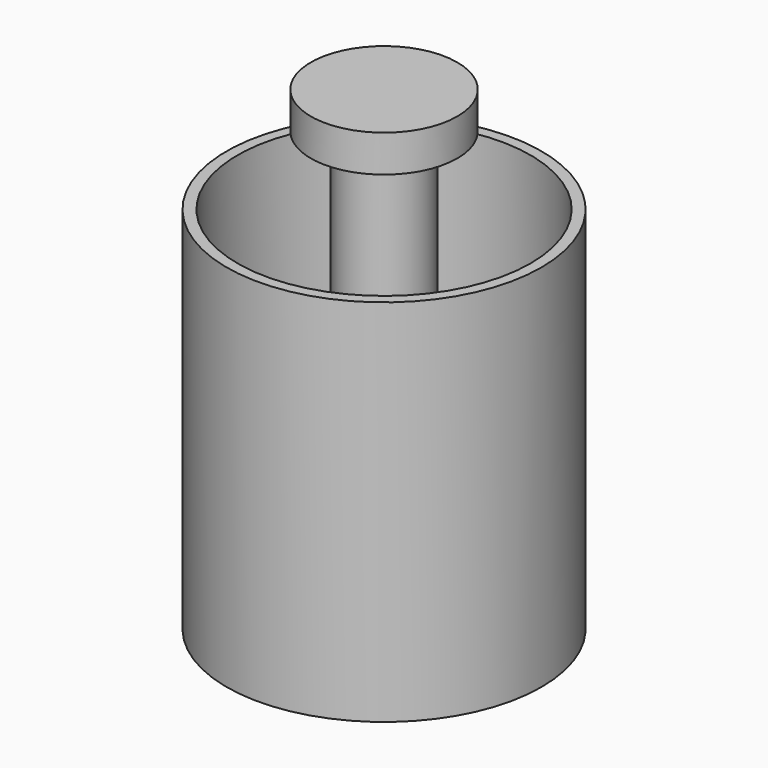
from build123d import *

# Parameters (mm, degrees)
F0_R     = 75.759685
F1_DEPTH = 177.8
F2_R     = 70.52244
F3_DEPTH = 76.2
F4_R     = 20.051342
F5_DEPTH = 127
F6_R     = 35.247261
F6_R_2   = 20.051342
F7_DEPTH = 17.78
F8_R     = 68.34828
F9_DEPTH = 88.9


with BuildPart() as f1:
    # F0 (on Top) → F1 (new body)
    with BuildSketch(Plane.XY):
        Circle(F0_R)
    extrude(amount=F1_DEPTH)

    # F2 (on face) → F3 (cut)
    with BuildSketch(Plane.XY.offset(177.8)):
        Circle(F2_R)
    extrude(amount=-F3_DEPTH, mode=Mode.SUBTRACT)

    # F4 (on face) → F5 (join)
    with BuildSketch(Plane.XY.offset(101.6)):
        Circle(F4_R)
    extrude(amount=F5_DEPTH)

    # F6 (on face) → F7 (join)
    with BuildSketch(Plane.XY.offset(228.6)):
        Circle(F6_R)
        Circle(F6_R_2, mode=Mode.SUBTRACT)
    extrude(amount=-F7_DEPTH)

    # F8 (on face) → F9 (cut)
    with BuildSketch(Plane(origin=(0, 0, 0), x_dir=(1, 0, 0), z_dir=(0, 0, -1))):
        Circle(F8_R)
    extrude(amount=-F9_DEPTH, mode=Mode.SUBTRACT)


solid = f1.part
